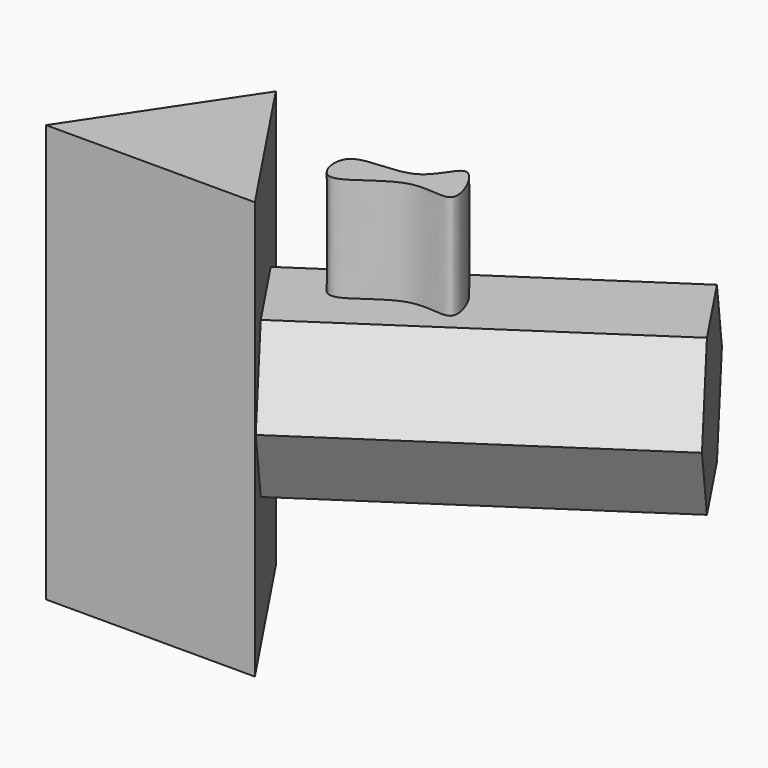
from build123d import *

# Parameters (mm, degrees)
F1_DEPTH = 50.8
F3_DEPTH = 85.09
F5_DEPTH = 25.4


with BuildPart() as f1:
    # F0 (on Top) → F1 (new body, symmetric)
    with BuildSketch(Plane.XY):
        Polygon((25.4, -38.1), (0, 0), (-25.4, -38.1), align=None)
    extrude(amount=F1_DEPTH, both=True)

    # F2 (on face) → F3 (join)
    with BuildSketch(Plane(origin=(0, 0, 0), x_dir=(-0.5547001962, 0.8320502943, 0), z_dir=(0.8320502943, 0.5547001962, 0))):
        Polygon((-11.0765361257, 18.9624670893), (-32.9725070827, 18.9624670893), (-43.9204925612, 0), (-32.9725070827, -18.9624670893), (-11.0765361257, -18.9624670893), (-0.1285506472, 0), align=None)
    extrude(amount=F3_DEPTH)

    # F4 (on face) → F5 (join)
    with BuildSketch(Plane.XY.offset(18.9624670893)):
        with BuildLine():
            add(Edge.make_bspline(
                [(21.7850599438, -11.1728273332), (24.91196927, -12.324822675), (34.5838238055, -0.3628267994), (49.6700135525, -7.3872989451), (40.5615667196, 12.1756003251), (36.6019703838, -4.1668657612), (17.0137429969, 0.7146759114), (19.5981739455, -10.3671491954), (21.7850599438, -11.1728273332)],
                knots=[0, 0, 0, 0, 0.1980925373, 0.3554361767, 0.5169793381, 0.6684045786, 0.8614587917, 1, 1, 1, 1], degree=3))
        make_face()
    extrude(amount=F5_DEPTH)


solid = f1.part
